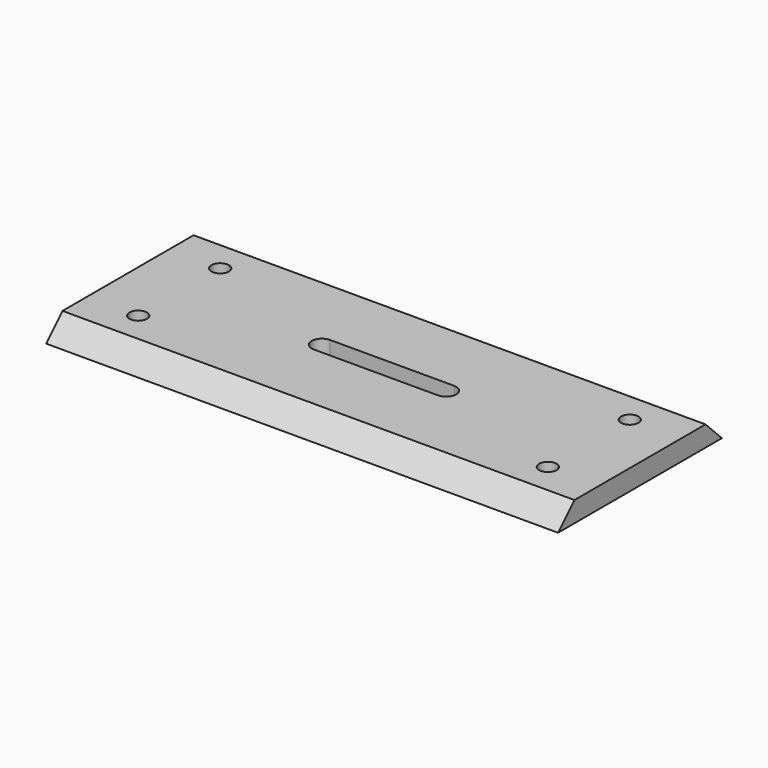
from build123d import *

# Parameters (mm, degrees)
PAD002_DEPTH    = 250
SKETCH004_R     = 4.25
HOLE_DEPTH      = 25
POCKET002_DEPTH = 10.001


with BuildPart() as part:
    # Sketch003 → Pad002 (new body)
    with BuildSketch(Plane.YZ):
        Polygon((-40, 10), (40, 10), (50, 0), (-50, 0), align=None)
    extrude(amount=PAD002_DEPTH)

    # Sketch004 (on Face2 of Pad002) → Hole (cut)
    with BuildSketch(Plane(origin=(0, 0, 10), x_dir=(0, -1, 0), z_dir=(0, 0, 1))):
        with Locations((-25, 25)):
            Circle(SKETCH004_R)
        with Locations((25, 25)):
            Circle(SKETCH004_R)
        with Locations((25, 225)):
            Circle(SKETCH004_R)
        with Locations((-25, 225)):
            Circle(SKETCH004_R)
    extrude(amount=-HOLE_DEPTH, mode=Mode.SUBTRACT)

    # Sketch005 (on Face3 of Hole) → Pocket002 (cut, through all)
    with BuildSketch(Plane(origin=(0, 0, 10), x_dir=(0, -1, 0), z_dir=(0, 0, 1))):
        with BuildLine():
            ThreePointArc((5, 155.310546), (0, 160.310546), (-5, 155.310546))
            Line((-5, 155.310546), (-5, 94.689454))
            ThreePointArc((-5, 94.689454), (0, 89.689454), (5, 94.689454))
            Line((5, 155.310546), (5, 94.689454))
        make_face()
    extrude(amount=-POCKET002_DEPTH, mode=Mode.SUBTRACT)


solid = part.part
